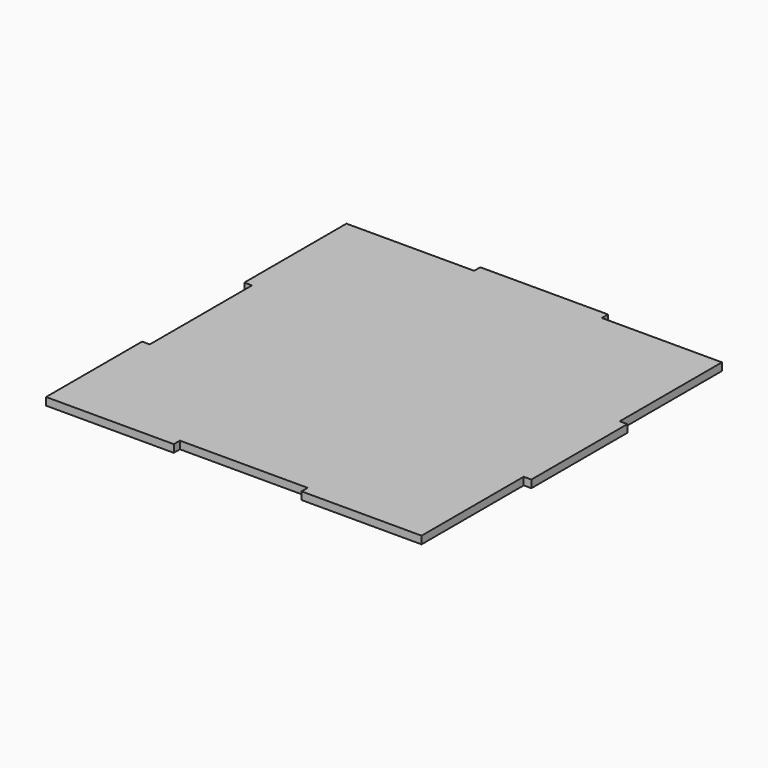
from build123d import *

# Parameters (mm, degrees)
F1_DEPTH = 76.2


with BuildPart() as f1:
    # F0 (on Top) → F1 (new body)
    with BuildSketch(Plane.XY):
        Polygon((731.630458, 1828.8), (731.630458, 1905), (-538.369542, 1905), (-538.369542, 1828.8), (-1808.369542, 1828.8), (-1808.369542, 558.8), (-1732.169542, 558.8), (-1732.169542, -711.2), (-1808.369542, -711.2), (-1808.369542, -1905), (-538.369542, -1905), (-538.369542, -1828.8), (731.630458, -1828.8), (731.630458, -1905), (1925.430458, -1905), (1925.430458, -635), (2001.630458, -635), (2001.630458, 558.8), (1925.430458, 558.8), (1925.430458, 1828.8), align=None)
    extrude(amount=F1_DEPTH)


solid = f1.part
